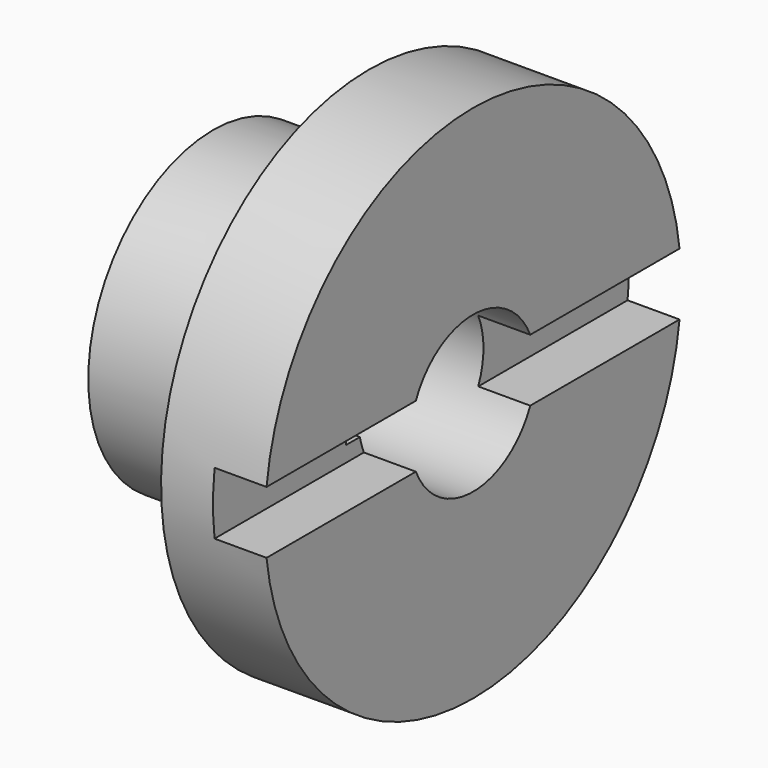
from build123d import *

# Parameters (mm, degrees)
F3_DEPTH = 50
F5_DEPTH = 10


with BuildPart() as f1:
    # F0 (on Front) → F1 (revolve)
    with BuildSketch(Plane.XZ):
        with BuildLine():
            Line((0, 30), (0, 15))
            Line((0, 15), (50, 15))
            Line((50, 15), (50, 50))
            Line((50, 50), (30, 50))
            Line((30, 50), (30, 35))
            ThreePointArc((30, 35), (28.5355339059, 31.4644660941), (25, 30))
            Line((25, 30), (0, 30))
        make_face()
    revolve(axis=Axis((18.1425, 0, 0), (1, 0, 0)))

    # F2 (on face) → F3 (cut)
    with BuildSketch(Plane(origin=(0, 0, 0), x_dir=(0, -1, 0), z_dir=(-1, 0, 0))):
        with BuildLine():
            ThreePointArc((15, 0), (14.9240422951, -1.5076344301), (14.6969384567, -3))
            Line((14.6969384567, -3), (18, -3))
            Line((18, -3), (18, 3))
            Line((18, 3), (14.6969384567, 3))
            ThreePointArc((14.6969384567, 3), (14.9240422951, 1.5076344301), (15, 0))
        make_face()
    extrude(amount=-F3_DEPTH, mode=Mode.SUBTRACT)

    # F4 (on face) → F5 (cut)
    with BuildSketch(Plane.YZ.offset(50)):
        with BuildLine():
            Line((-13.7477270849, 6), (-49.638694584, 6))
            ThreePointArc((-49.638694584, 6), (-50, 0), (-49.638694584, -6))
            Line((-49.638694584, -6), (-13.7477270849, -6))
            ThreePointArc((-13.7477270849, -6), (-14.3012149639, -4.5249586249), (-14.6969384567, -3))
            Line((-14.6969384567, -3), (-18, -3))
            Line((-18, -3), (-18, 3))
            Line((-18, 3), (-14.6969384567, 3))
            ThreePointArc((-14.6969384567, 3), (-14.3012149639, 4.5249586249), (-13.7477270849, 6))
        make_face()
        with BuildLine():
            ThreePointArc((50, 0), (49.9095919098, 3.0054343115), (49.638694584, 6))
            Line((49.638694584, 6), (13.7477270849, 6))
            ThreePointArc((13.7477270849, 6), (15, 0), (13.7477270849, -6))
            Line((13.7477270849, -6), (49.638694584, -6))
            ThreePointArc((49.638694584, -6), (49.9095919098, -3.0054343115), (50, 0))
        make_face()
    extrude(amount=-F5_DEPTH, mode=Mode.SUBTRACT)


solid = f1.part
